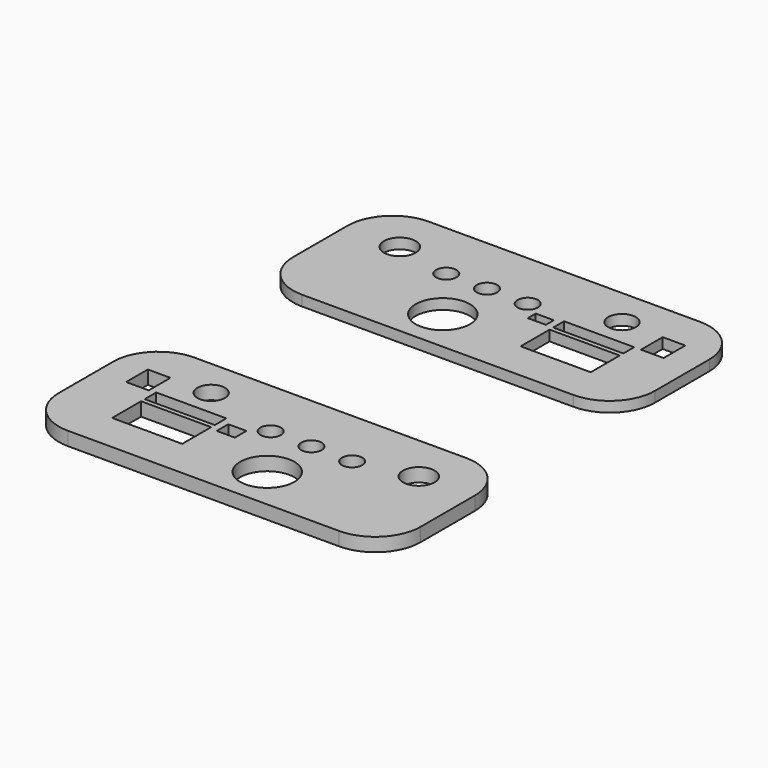
from build123d import *

# Parameters (mm, degrees)
F0_W     = 80
F0_H     = 35
F0_R     = 6
F0_R_2   = 3.5
F0_R_3   = 2.25
F0_W_2   = 4
F0_H_2   = 2.2
F0_W_3   = 15.5
F0_H_3   = 8
F0_H_4   = 3
F0_R_4   = 3.05
F0_W_4   = 5
F0_H_5   = 6
F1_DEPTH = 2.3
F2_R     = 10
F0_H_6   = 3.2
F3_DEPTH = 3
F4_R     = 10


with BuildPart() as f1:
    # F0 (on Top) → F1 (new body)
    with BuildSketch(Plane.XY):
        with Locations((3.000022, 66.000001)):
            Rectangle(F0_W, F0_H)
        with Locations((-3.499978, 58.000001)):
            Circle(F0_R, mode=Mode.SUBTRACT)
        with Locations((-24.999978, 73.000001)):
            Circle(F0_R_2, mode=Mode.SUBTRACT)
        with Locations((-12.499978, 70.200001)):
            Circle(F0_R_3, mode=Mode.SUBTRACT)
        with Locations((-3.499978, 70.200001)):
            Circle(F0_R_3, mode=Mode.SUBTRACT)
        with Locations((5.500022, 70.200001)):
            Circle(F0_R_3, mode=Mode.SUBTRACT)
        with Locations((10.870362, 67.100001)):
            Rectangle(F0_W_2, F0_H_2, mode=Mode.SUBTRACT)
        with Locations((22.250022, 61.000001)):
            Rectangle(F0_W_3, F0_H_3, mode=Mode.SUBTRACT)
        with Locations((22.250022, 67.500001)):
            Rectangle(F0_W_3, F0_H_4, mode=Mode.SUBTRACT)
        with Locations((22.500022, 75.000001)):
            Circle(F0_R_4, mode=Mode.SUBTRACT)
        with Locations((34.000022, 72.000001)):
            Rectangle(F0_W_4, F0_H_5, mode=Mode.SUBTRACT)
    extrude(amount=F1_DEPTH)

    # F2
    f2_edges = [f1.edges().sort_by_distance(p)[0] for p in [
        (43.000022, 83.500001, 1.15),
        (43.000022, 48.500001, 1.15),
        (-36.999978, 48.500001, 1.15),
        (-36.999978, 83.500001, 1.15),
    ]]
    fillet(f2_edges, radius=F2_R)


with BuildPart() as f3:
    # F0 (on Top) → F3 (new body)
    with BuildSketch(Plane.XY):
        with Locations((3.999998, 0)):
            Rectangle(F0_W, F0_H)
        with Locations((-27.000002, 6)):
            Rectangle(F0_W_4, F0_H_5, mode=Mode.SUBTRACT)
        with Locations((-15.250002, -5)):
            Rectangle(F0_W_3, F0_H_3, mode=Mode.SUBTRACT)
        with Locations((-15.250002, 1.6)):
            Rectangle(F0_W_3, F0_H_6, mode=Mode.SUBTRACT)
        with Locations((-3.870343, 0.1)):
            Rectangle(F0_W_2, F0_H_6, mode=Mode.SUBTRACT)
        with Locations((1.499998, 4.2)):
            Circle(F0_R_3, mode=Mode.SUBTRACT)
        with Locations((-15.500002, 9)):
            Circle(F0_R_4, mode=Mode.SUBTRACT)
        with Locations((10.499998, -8)):
            Circle(F0_R, mode=Mode.SUBTRACT)
        with Locations((10.499998, 4.2)):
            Circle(F0_R_3, mode=Mode.SUBTRACT)
        with Locations((19.499998, 4.2)):
            Circle(F0_R_3, mode=Mode.SUBTRACT)
        with Locations((31.999998, 7)):
            Circle(F0_R_2, mode=Mode.SUBTRACT)
    extrude(amount=F3_DEPTH)

    # F4
    f4_edges = [f3.edges().sort_by_distance(p)[0] for p in [
        (-36.000002, 17.5, 1.5),
        (-36.000002, -17.5, 1.5),
        (43.999998, 17.5, 1.5),
        (43.999998, -17.5, 1.5),
    ]]
    fillet(f4_edges, radius=F4_R)


solid = Compound([f1.part, f3.part])
